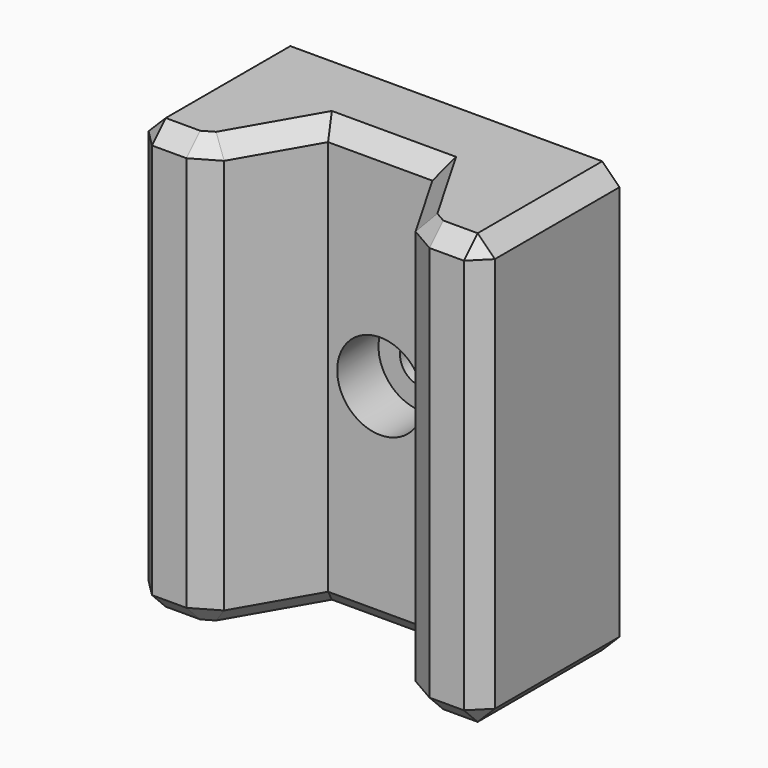
from build123d import *

# Parameters (mm, degrees)
PAD_DEPTH        = 12.5
HOLE_D           = 2.5
HOLE_DEPTH       = 25
HOLE_CBORE_D     = 5
HOLE_CBORE_DEPTH = 3
SKETCH002_R      = 3.25
HOLE001_DEPTH    = 3.4
CHAMFER_SIZE     = 1


with BuildPart() as part:
    # Sketch → Pad (new body, symmetric)
    with BuildSketch(Plane.XY):
        Polygon((16.124356, 0), (13.093267, 5.25), (7.031089, 5.25), (4, 0), (0, 0), (0, 10.05), (20.124356, 10.05), (20.124356, 0), align=None)
    extrude(amount=PAD_DEPTH, both=True)

    # Hole
    with Locations(Plane.XZ.offset(-5.25)):
        with Locations((10.062178, 0)):
            CounterBoreHole(HOLE_D / 2, HOLE_CBORE_D / 2, HOLE_CBORE_DEPTH, depth=HOLE_DEPTH)

    # Sketch002 (on Face3 of Hole) → Hole001 (cut)
    with BuildSketch(Plane.XZ.offset(-5.65)):
        with Locations((10.062178, 7.5)):
            Circle(SKETCH002_R)
        with Locations((10.062178, -7.5)):
            Circle(SKETCH002_R)
    extrude(amount=-HOLE001_DEPTH, mode=Mode.SUBTRACT)

    # Chamfer
    chamfer_edges = [part.edges().sort_by_distance(p)[0] for p in [
        (2, 0, 12.5),
        (5.515544, 2.625, 12.5),
        (10.062178, 5.25, 12.5),
        (14.608811, 2.625, 12.5),
        (18.124356, 0, 12.5),
        (20.124356, 5.025, 12.5),
        (0, 5.025, 12.5),
        (4, 0, 0),
        (0, 0, 0),
        (20.124356, 0, 0),
        (16.124356, 0, 0),
        (18.124356, 0, -12.5),
        (20.124356, 5.025, -12.5),
        (14.608811, 2.625, -12.5),
        (10.062178, 5.25, -12.5),
        (5.515544, 2.625, -12.5),
        (2, 0, -12.5),
        (0, 5.025, -12.5),
    ]]
    chamfer(chamfer_edges, length=CHAMFER_SIZE)


solid = part.part
